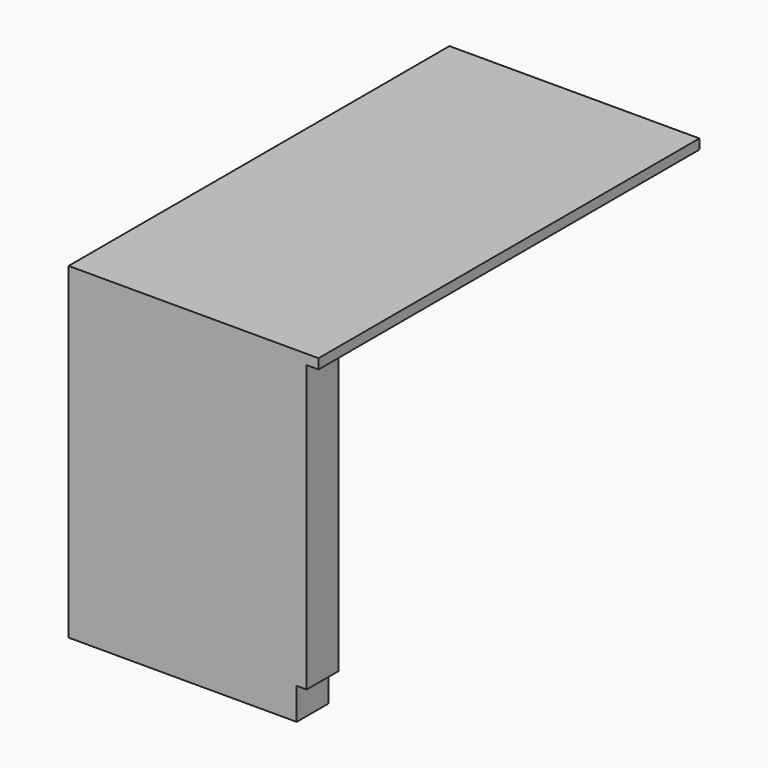
from build123d import *

# Parameters (mm, degrees)
F0_W     = 600
F0_H     = 100
F1_DEPTH = 800
F2_W     = 100
F2_H     = 80
F3_DEPTH = 25
F4_W     = 630
F4_H     = 100
F5_DEPTH = 25
F6_W     = 630
F6_H     = 25
F7_DEPTH = 1100


with BuildPart() as f1:
    # F0 (on Top) → F1 (new body)
    with BuildSketch(Plane.XY):
        Rectangle(F0_W, F0_H)
    extrude(amount=F1_DEPTH)

    # F2 (on face) → F3 (cut)
    with BuildSketch(Plane.YZ.offset(300)):
        with Locations((0, 40)):
            Rectangle(F2_W, F2_H)
    extrude(amount=-F3_DEPTH, mode=Mode.SUBTRACT)

    # F4 (on face) → F5 (join)
    with BuildSketch(Plane.XY.offset(800)):
        with Locations((15, 0)):
            Rectangle(F4_W, F4_H)
    extrude(amount=F5_DEPTH)

    # F6 (on face) → F7 (join)
    with BuildSketch(Plane(origin=(0, 50, 0), x_dir=(-1, 0, 0), z_dir=(0, 1, 0))):
        with Locations((-15, 812.5)):
            Rectangle(F6_W, F6_H)
    extrude(amount=F7_DEPTH)


solid = f1.part
